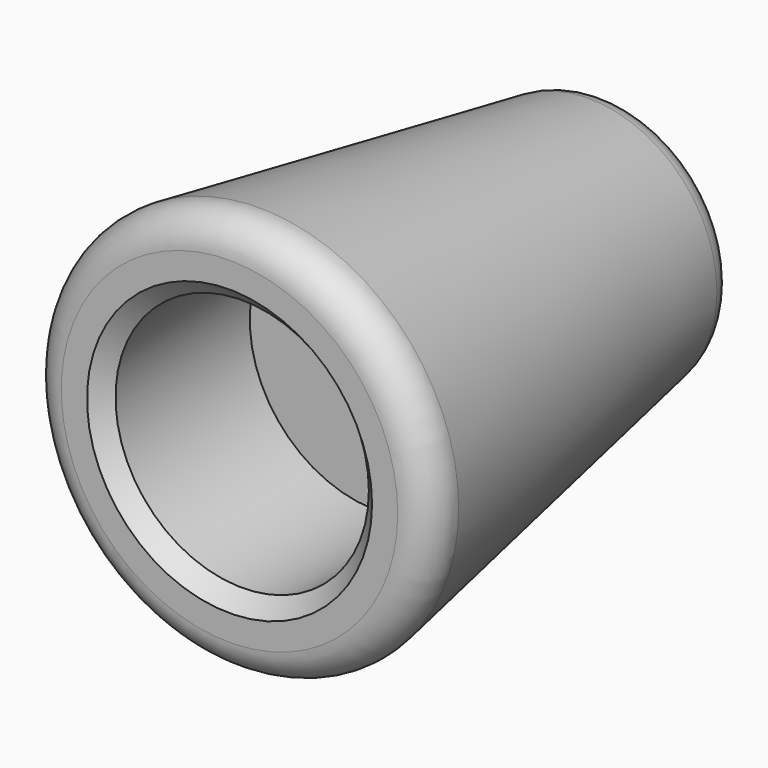
from build123d import *

# Parameters (mm, degrees)
F2_R      = 4.1
F3_DEPTH  = 17
F4_R      = 2
F6_R      = 2
F7_DEPTH  = 12
F8_R      = 2
F9_SIZE   = 1
F10_R     = 1.5202998137
F11_DEPTH = 14


with BuildPart() as f1:
    # F0 (on Top) → F1 (revolve)
    with BuildSketch(Plane.XY):
        Polygon((13, -15), (7.821855842, 15), (0, 15), (0, -3.4), (8, -3.4), (8, -15), align=None)
    revolve(axis=Axis((0, 5.8, 0), (0, -1, 0)))

    # F2 (on face) → F3 (cut)
    with BuildSketch(Plane(origin=(0, 15, 0), x_dir=(-1, 0, 0), z_dir=(0, 1, 0))):
        Circle(F2_R)
    extrude(amount=-F3_DEPTH, mode=Mode.SUBTRACT)

    # F5: sweep along a path in F5_path
    with BuildLine(Plane(origin=(-4.1, -2, 0), x_dir=(0, 0, 1), z_dir=(0, -1, 0))) as f5_path:
        CenterArc((0, -4.1), 4.1, 0, 360)
    # F4 (on Right) → F5 (sweep, cut)
    with BuildSketch(Plane.YZ):
        with Locations((0, 3.7194299512)):
            Circle(F4_R)
    sweep(path=f5_path.line, mode=Mode.SUBTRACT)

    # F6 (on face) → F7 (cut)
    with BuildSketch(Plane(origin=(0, 15, 0), x_dir=(-1, 0, 0), z_dir=(0, 1, 0))):
        with Locations((-4.1, 0)):
            Circle(F6_R)
    extrude(amount=-F7_DEPTH, mode=Mode.SUBTRACT)

    # F8
    f8_edges = [f1.edges().sort_by_distance(p)[0] for p in [
        (-7.821856, 15, 0),
        (-13, -15, 0),
    ]]
    fillet(f8_edges, radius=F8_R)

    # F9
    f9_edges = [f1.edges().sort_by_distance(p)[0] for p in [
        (-8, -15, 0),
    ]]
    chamfer(f9_edges, length=F9_SIZE)

    # F10 (on face) → F11 (cut)
    with BuildSketch(Plane(origin=(0, 15, 0), x_dir=(-1, 0, 0), z_dir=(0, 1, 0))):
        with Locations((-3.9308541454, 0)):
            Circle(F10_R)
    extrude(amount=-F11_DEPTH, mode=Mode.SUBTRACT)


solid = f1.part
